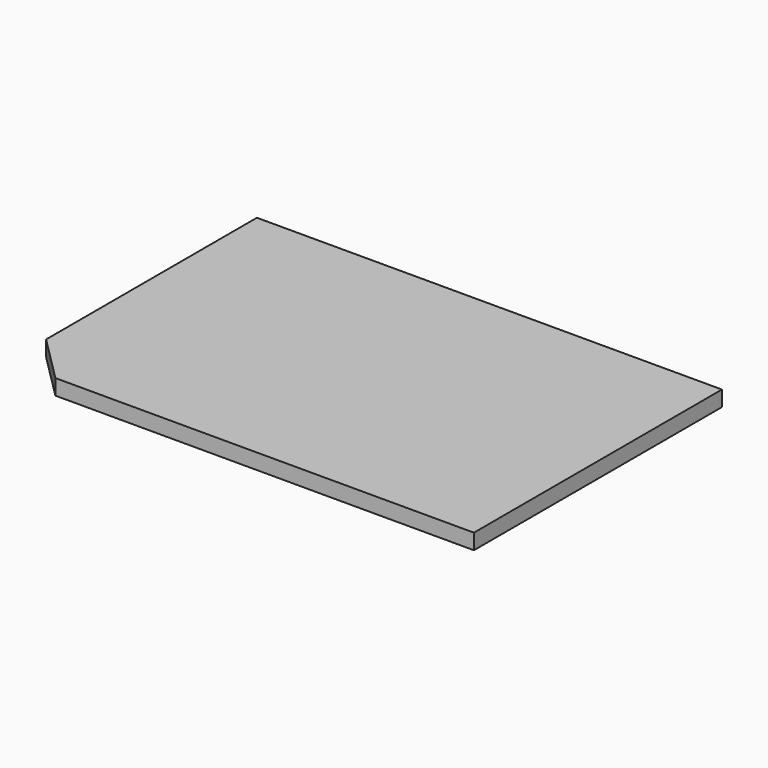
from build123d import *

# Parameters (mm, degrees)
PAD_DEPTH    = 0.5
SKETCH_R     = 1.5
PAD001_DEPTH = 1.5


with BuildPart() as part:
    # Sketch002 → Pad (new body)
    with BuildSketch(Plane.XY.offset(1.4)):
        Polygon((-7.5, 5), (7.5, 5), (7.5, -5), (-6, -5), (-7.5, -3.5), align=None)
    extrude(amount=PAD_DEPTH)

    # Sketch (on Face6 of Pad) → Pad001 (join)
    with BuildSketch(Plane(origin=(0, 0, 1.4), x_dir=(1, 0, 0), z_dir=(0, 0, -1))):
        Circle(SKETCH_R)
    extrude(amount=PAD001_DEPTH)


solid = part.part
